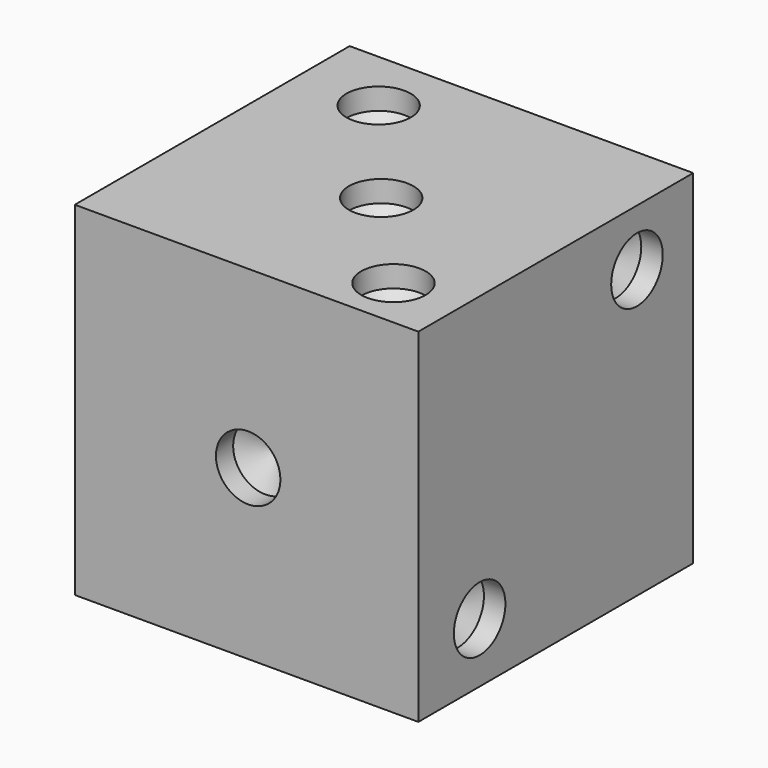
from build123d import *

# Parameters (mm, degrees)
F0_W            = 25.4
F0_H            = 25.4
F1_DEPTH        = 25.4
F5_D            = 4.7625
F5_DEPTH        = 1.5875
F5_TIP          = 1.4307993491
F5_ON_F4_D      = 4.7625
F5_ON_F4_DEPTH  = 1.5875
F5_ON_F4_TIP    = 1.4307993491
F5_ON_F3_D      = 4.7625
F5_ON_F3_DEPTH  = 1.5875
F5_ON_F3_TIP    = 1.4307993491
F12_D           = 4.7625
F12_DEPTH       = 1.5875
F12_TIP         = 1.4307993491
F12_ON_F9_D     = 4.7625
F12_ON_F9_DEPTH = 1.5875
F12_ON_F9_TIP   = 1.4307993491
F12_ON_F7_D     = 4.7625
F12_ON_F7_DEPTH = 1.5875
F12_ON_F7_TIP   = 1.4307993491


with BuildPart() as f1:
    # F0 (on Front) → F1 (new body)
    with BuildSketch(Plane.XZ):
        with Locations((12.7, 12.7)):
            Rectangle(F0_W, F0_H)
    extrude(amount=F1_DEPTH)

    # F5
    with Locations(Plane(origin=(0, 0, 0), x_dir=(1, 0, 0), z_dir=(0, 1, 0))):
        with Locations((5.163225811, -20.5700751394), (12.4993771315, -20.5700751394), (19.7021439672, -20.5700751394), (5.163225811, -3.7636191119), (12.4993771315, -3.7636191119), (19.7021439672, -3.7636191119)):
            Hole(F5_D / 2, depth=F5_DEPTH)
            with Locations((0, 0, -(F5_DEPTH + F5_TIP / 2))):  # 118° drill point
                Cone(0, F5_D / 2, F5_TIP, mode=Mode.SUBTRACT)

    # F5 on F4
    with Locations(Plane(origin=(0, 0, 0), x_dir=(1, 0, 0), z_dir=(0, 0, -1))):
        with Locations((4.9593222017, 21.0649077781), (19.4982403579, 21.0649077781), (4.9593222017, 4.2584517505), (19.4982403579, 4.2584517505)):
            Hole(F5_ON_F4_D / 2, depth=F5_ON_F4_DEPTH)
            with Locations((0, 0, -(F5_ON_F4_DEPTH + F5_ON_F4_TIP / 2))):  # 118° drill point
                Cone(0, F5_ON_F4_D / 2, F5_ON_F4_TIP, mode=Mode.SUBTRACT)

    # F5 on F3
    with Locations(Plane(origin=(0, 0, 0), x_dir=(0, 1, 0), z_dir=(-1, 0, 0))):
        with Locations((-5.2978646321, -20.9627368022), (-12.5006314677, -12.0259702671), (-19.8367827882, -4.1562807746), (-19.8367827882, -20.9627368022), (-5.2978646321, -4.1562807746)):
            Hole(F5_ON_F3_D / 2, depth=F5_ON_F3_DEPTH)
            with Locations((0, 0, -(F5_ON_F3_DEPTH + F5_ON_F3_TIP / 2))):  # 118° drill point
                Cone(0, F5_ON_F3_D / 2, F5_ON_F3_TIP, mode=Mode.SUBTRACT)

    # F12
    with Locations(Plane.XY.offset(25.4)):
        with Locations((5.9497837598, -4.7563051339), (13.2859350803, -13.693071669), (20.488701916, -21.5627611615)):
            Hole(F12_D / 2, depth=F12_DEPTH)
            with Locations((0, 0, -(F12_DEPTH + F12_TIP / 2))):  # 118° drill point
                Cone(0, F12_D / 2, F12_TIP, mode=Mode.SUBTRACT)

    # F12 on F9
    with Locations(Plane.XZ.offset(25.4)):
        with Locations((12.818192287, 12.447725283)):
            Hole(F12_ON_F9_D / 2, depth=F12_ON_F9_DEPTH)
            with Locations((0, 0, -(F12_ON_F9_DEPTH + F12_ON_F9_TIP / 2))):  # 118° drill point
                Cone(0, F12_ON_F9_D / 2, F12_ON_F9_TIP, mode=Mode.SUBTRACT)

    # F12 on F7
    with Locations(Plane.YZ.offset(25.4)):
        with Locations((-19.7374898319, 4.4168853201), (-5.1985716758, 21.2233413476)):
            Hole(F12_ON_F7_D / 2, depth=F12_ON_F7_DEPTH)
            with Locations((0, 0, -(F12_ON_F7_DEPTH + F12_ON_F7_TIP / 2))):  # 118° drill point
                Cone(0, F12_ON_F7_D / 2, F12_ON_F7_TIP, mode=Mode.SUBTRACT)


solid = f1.part
